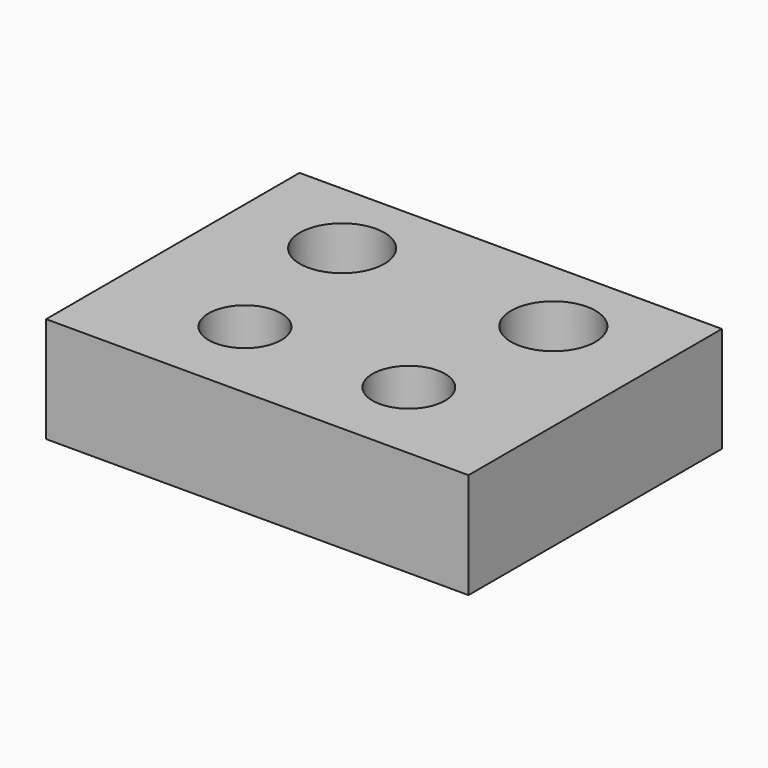
from build123d import *

# Parameters (mm, degrees)
F1_DEPTH = 6.35


with BuildPart() as f1:
    # F0 (on Top) → F1 (new body)
    with BuildSketch(Plane.XY):
        with BuildLine():
            Line((12.7, 19.05), (-12.7, 19.05))
            Line((-12.7, 19.05), (-12.7, 14.313342981))
            Line((-12.7, 14.313342981), (-8.89, 14.313342981))
            ThreePointArc((-8.89, 14.313342981), (-6.35, 16.853342981), (-3.81, 14.313342981))
            Line((-3.81, 14.313342981), (3.81, 14.313342981))
            ThreePointArc((3.81, 14.313342981), (6.35, 16.853342981), (8.89, 14.313342981))
            Line((8.89, 14.313342981), (12.7, 14.313342981))
            Line((12.7, 14.313342981), (12.7, 19.05))
        make_face()
        with BuildLine():
            Line((-8.89, 14.313342981), (-12.7, 14.313342981))
            Line((-12.7, 14.313342981), (-12.7, 9.525))
            Line((-12.7, 9.525), (12.7, 9.525))
            Line((12.7, 9.525), (12.7, 14.313342981))
            Line((12.7, 14.313342981), (8.89, 14.313342981))
            ThreePointArc((8.89, 14.313342981), (6.35, 11.773342981), (3.81, 14.313342981))
            Line((3.81, 14.313342981), (-3.81, 14.313342981))
            ThreePointArc((-3.81, 14.313342981), (-6.35, 11.773342981), (-8.89, 14.313342981))
        make_face()
        with BuildLine():
            Line((12.7, 9.525), (-12.7, 9.525))
            Line((-12.7, 9.525), (-12.7, 5.2324))
            Line((-12.7, 5.2324), (-7.1104125, 5.2324))
            ThreePointArc((-7.1104125, 5.2324), (-4.9276, 7.4152125), (-2.7447875, 5.2324))
            Line((-2.7447875, 5.2324), (2.7447875, 5.2324))
            ThreePointArc((2.7447875, 5.2324), (4.9276, 7.4152125), (7.1104125, 5.2324))
            Line((7.1104125, 5.2324), (12.7, 5.2324))
            Line((12.7, 5.2324), (12.7, 9.525))
        make_face()
        with BuildLine():
            Line((-7.1104125, 5.2324), (-12.7, 5.2324))
            Line((-12.7, 5.2324), (-12.7, 0))
            Line((-12.7, 0), (12.7, 0))
            Line((12.7, 0), (12.7, 5.2324))
            Line((12.7, 5.2324), (7.1104125, 5.2324))
            ThreePointArc((7.1104125, 5.2324), (4.9276, 3.0495875), (2.7447875, 5.2324))
            Line((2.7447875, 5.2324), (-2.7447875, 5.2324))
            ThreePointArc((-2.7447875, 5.2324), (-4.9276, 3.0495875), (-7.1104125, 5.2324))
        make_face()
    extrude(amount=F1_DEPTH)


solid = f1.part
